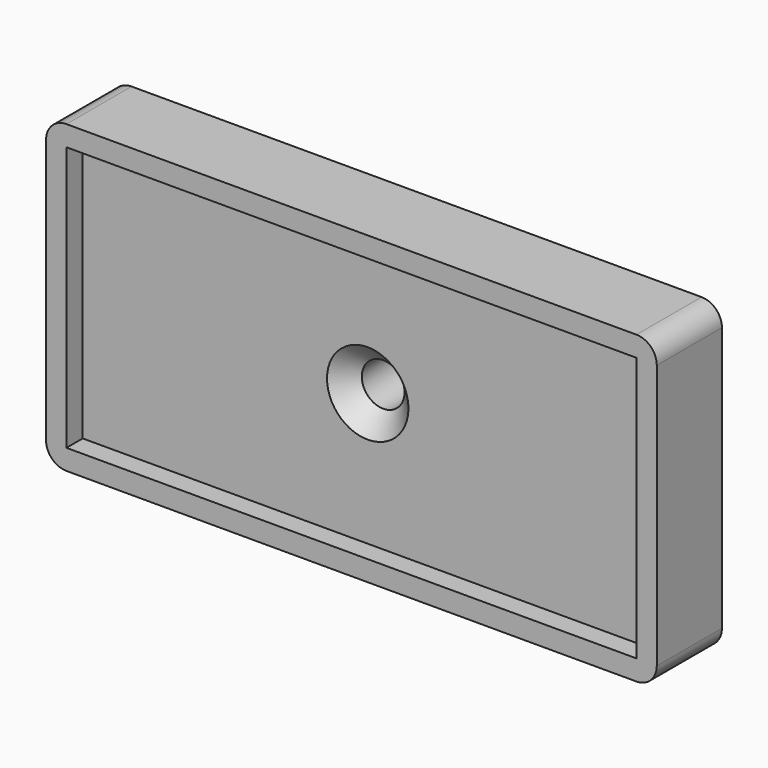
from build123d import *

# Parameters (mm, degrees)
F1_DEPTH       = 6
F2_DEPTH       = 2
F3_D           = 4.2
F3_DEPTH       = 15
F3_CSINK_D     = 8
F3_CSINK_ANGLE = 90
F4_R           = 2


with BuildPart() as f1:
    # F0 (on Front) → F1 (new body)
    with BuildSketch(Plane.XZ):
        Polygon((-58, 28), (-58, 15), (-58, 2), (-2, 2), (-2, 28), align=None)
        Polygon((-60, 0), (0, 0), (0, 30), (-60, 30), (-60, 15), align=None)
        Polygon((-58, 2), (-58, 15), (-58, 28), (-2, 28), (-2, 2), align=None, mode=Mode.SUBTRACT)
        Polygon((-58, 28), (-58, 15), (-58, 2), (-2, 2), (-2, 28), align=None)
    extrude(amount=-F1_DEPTH)

    # F0 (on Front) → F2 (join)
    with BuildSketch(Plane.XZ):
        Polygon((-60, 0), (0, 0), (0, 30), (-60, 30), (-60, 15), align=None)
        Polygon((-58, 2), (-58, 15), (-58, 28), (-2, 28), (-2, 2), align=None, mode=Mode.SUBTRACT)
    extrude(amount=F2_DEPTH)

    # F3
    with Locations(Plane.XZ):
        with Locations((-30, 15)):
            CounterSinkHole(F3_D / 2, F3_CSINK_D / 2, depth=F3_DEPTH, counter_sink_angle=F3_CSINK_ANGLE)

    # F4
    f4_edges = [f1.edges().sort_by_distance(p)[0] for p in [
        (-60, 2, 30),
        (0, 2, 30),
        (0, 2, 0),
        (-60, 2, 0),
    ]]
    fillet(f4_edges, radius=F4_R)


solid = f1.part
